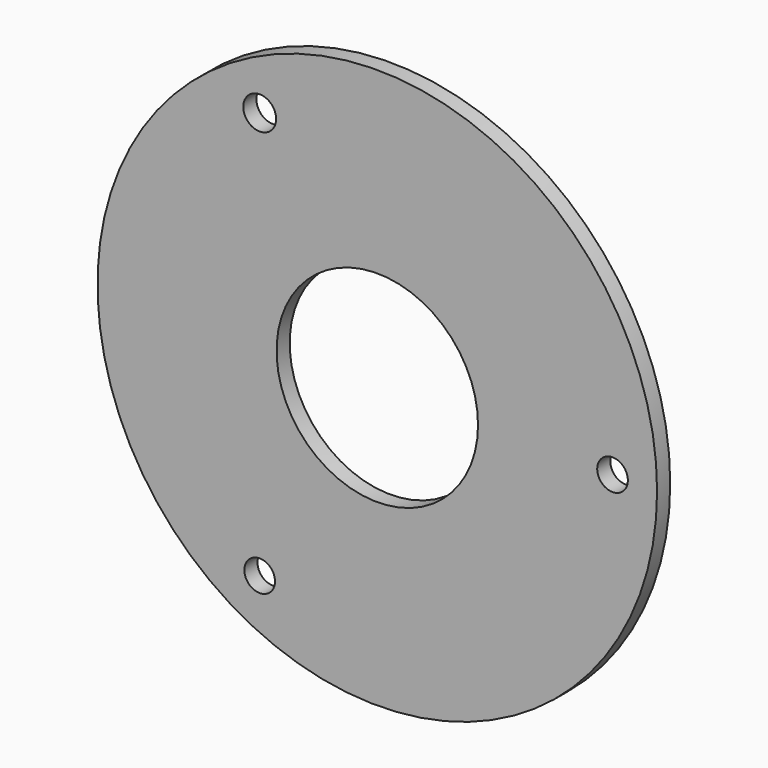
from build123d import *

# Parameters (mm, degrees)
F0_R     = 51.147265
F0_R_2   = 2.800835
F0_R_3   = 3
F0_R_4   = 18.413015
F1_DEPTH = 3


with BuildPart() as f1:
    # F0 (on Front) → F1 (new body)
    with BuildSketch(Plane.XZ):
        with Locations((-39.088421, 7.339887)):
            Circle(F0_R)
        with Locations((-60.588101, -29.89939)):
            Circle(F0_R_2, mode=Mode.SUBTRACT)
        with Locations((-60.588101, 44.579164)):
            Circle(F0_R_3, mode=Mode.SUBTRACT)
        with Locations((-39.088421, 7.339887)):
            Circle(F0_R_4, mode=Mode.SUBTRACT)
        with Locations((3.911579, 7.339887)):
            Circle(F0_R_2, mode=Mode.SUBTRACT)
    extrude(amount=F1_DEPTH)


solid = f1.part
